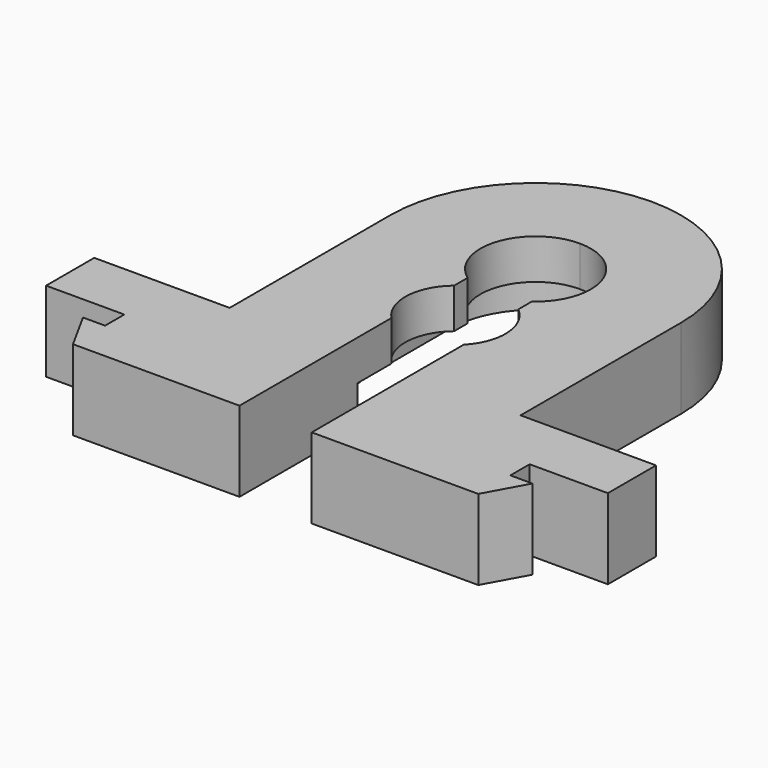
from build123d import *

# Parameters (mm, degrees)
F1_DEPTH = 2
F2_DEPTH = 2


with BuildPart() as f1:
    # F0 (on Top) → F1 (new body, symmetric)
    with BuildSketch(Plane.XY):
        with BuildLine():
            ThreePointArc((4.25, -5), (3.5855613229, -7.2817208418), (1.8, -8.85))
            Line((1.8, -8.85), (1.8, -16.2))
            Line((1.8, -16.2), (10.1, -16.2))
            Line((10.1, -16.2), (11.2, -14.2))
            Line((11.2, -14.2), (10.1, -14.2))
            Line((10.1, -14.2), (10.1, -13))
            Line((10.1, -13), (14, -13))
            Line((14, -13), (14, -10))
            Line((14, -10), (7.25, -10))
            Line((7.25, -10), (7.25, -5))
            Line((7.25, -5), (7.25, -2.5))
            Line((7.25, -2.5), (7.25, 0))
            ThreePointArc((7.25, 0), (5.1265241636, 5.1265241636), (0, 7.25))
            ThreePointArc((0, 7.25), (-5.1265241636, 5.1265241636), (-7.25, 0))
            Line((-7.25, 0), (-7.25, -2.5))
            Line((-7.25, -2.5), (-7.25, -5))
            Line((-7.25, -5), (-7.25, -10))
            Line((-7.25, -10), (-14, -10))
            Line((-14, -10), (-14, -13))
            Line((-14, -13), (-10.1, -13))
            Line((-10.1, -13), (-10.1, -14.2))
            Line((-10.1, -14.2), (-11.2, -14.2))
            Line((-11.2, -14.2), (-10.1, -16.2))
            Line((-10.1, -16.2), (-1.8, -16.2))
            Line((-1.8, -16.2), (-1.8, -8.85))
            ThreePointArc((-1.8, -8.85), (-3.5855613229, -7.2817208418), (-4.25, -5))
            Line((-4.25, -5), (-4.25, -2.5))
            Line((-4.25, -2.5), (-4.25, 0))
            ThreePointArc((-4.25, 0), (-3.00520382, 3.00520382), (0, 4.25))
            ThreePointArc((0, 4.25), (3.00520382, 3.00520382), (4.25, 0))
            Line((4.25, 0), (4.25, -2.5))
            Line((4.25, -2.5), (4.25, -5))
        make_face()
    extrude(amount=F1_DEPTH, both=True)

    # F0 (on Top) → F2 (join)
    with BuildSketch(Plane.XY):
        with BuildLine():
            ThreePointArc((0, 2.75), (2.6185133227, 0.8401713984), (1.6, -2.2366269246))
            Line((1.6, -2.2366269246), (1.6, -3.0790627288))
            ThreePointArc((1.6, -3.0790627288), (2.4962673742, -4.8634379387), (1.8, -6.7349351573))
            Line((1.8, -6.7349351573), (1.8, -8.85))
            ThreePointArc((1.8, -8.85), (3.5855613229, -7.2817208418), (4.25, -5))
            Line((4.25, -5), (4.25, -2.5))
            Line((4.25, -2.5), (4.25, 0))
            ThreePointArc((4.25, 0), (3.00520382, 3.00520382), (0, 4.25))
            ThreePointArc((0, 4.25), (-3.00520382, 3.00520382), (-4.25, 0))
            Line((-4.25, 0), (-4.25, -2.5))
            Line((-4.25, -2.5), (-4.25, -5))
            ThreePointArc((-4.25, -5), (-3.5855613229, -7.2817208418), (-1.8, -8.85))
            Line((-1.8, -8.85), (-1.8, -6.7349351573))
            ThreePointArc((-1.8, -6.7349351573), (-2.4962673742, -4.8634379387), (-1.6, -3.0790627288))
            Line((-1.6, -3.0790627288), (-1.6, -2.2366269246))
            ThreePointArc((-1.6, -2.2366269246), (-2.6185133227, 0.8401713984), (0, 2.75))
        make_face()
    extrude(amount=F2_DEPTH)


solid = f1.part
